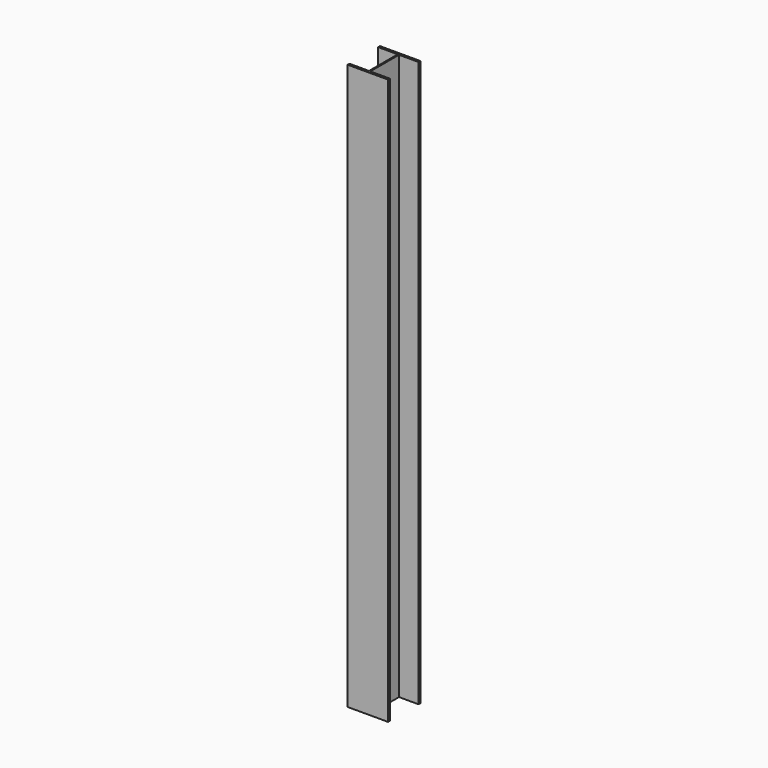
from build123d import *

# Parameters (mm, degrees)
F1_DEPTH = 3500


with BuildPart() as f1:
    # F0 (on Top) → F1 (new body)
    with BuildSketch(Plane.XY):
        Polygon((125, 250), (0, 250), (-125, 250), (-125, 236), (-4, 236), (-4, 14), (-125, 14), (-125, 0), (0, 0), (125, 0), (125, 14), (4, 14), (4, 236), (125, 236), align=None)
        Polygon((125, 250), (0, 250), (-125, 250), (-125, 236), (-4, 236), (-4, 14), (-125, 14), (-125, 0), (0, 0), (125, 0), (125, 14), (4, 14), (4, 236), (125, 236), align=None)
    extrude(amount=F1_DEPTH)


solid = f1.part
